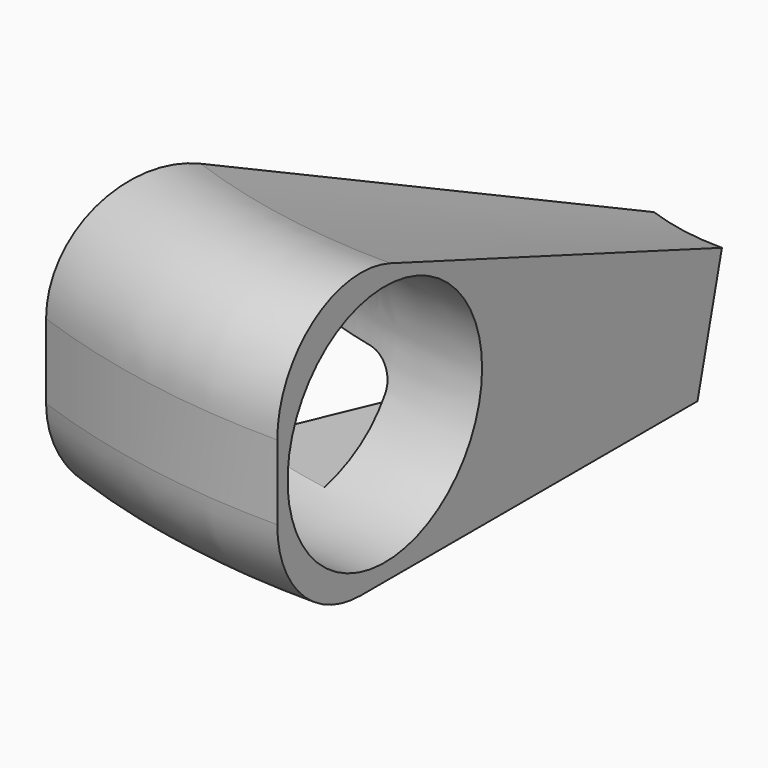
from build123d import *

# Parameters (mm, degrees)
F0_R     = 5.8053181287
F2_ANGLE = 20
F4_ANGLE = 10
F5_R     = 1.4002438662


with BuildPart() as f2:
    # F0 (on Right) → F2 (revolve)
    with BuildSketch(Plane.YZ):
        with BuildLine():
            Line((-32.5852286816, 0), (-12.5, 0))
            Line((-12.5, 0), (-11.0429839557, 5.8568340727))
            Line((-11.0429839557, 5.8568340727), (-30.835461438, 13.2508232685))
            ThreePointArc((-30.835461438, 13.2508232685), (-35.4357693129, 12.6748361661), (-37.5852286816, 8.5669878109))
            Line((-37.5852286816, 8.5669878109), (-37.5852286816, 5))
            ThreePointArc((-37.5852286816, 5), (-36.1207625875, 1.4644660941), (-32.5852286816, 0))
        make_face()
        with Locations((-31.1660505831, 6.6100014374)):
            Circle(F0_R, mode=Mode.SUBTRACT)
    revolve(axis=Axis((0, 0, 4.1237957776), (0, 0, -1)), revolution_arc=F2_ANGLE)

    # F3 (on face) → F4 (revolve, cut)
    with BuildSketch(Plane(origin=(0, 0, 0), x_dir=(-0.3420201433, -0.9396926208, 0), z_dir=(-0.9396926208, 0.3420201433, 0))):
        with BuildLine():
            Line((12.3108689231, 0.7602588451), (28.9381639648, 1.2491955472))
            ThreePointArc((28.9381639648, 1.2491955472), (26.6792086534, 2.9262576795), (25.4740637742, 5.4685091058))
            Line((25.4740637742, 5.4685091058), (11.7714919778, 2.9284170363))
            Line((11.7714919778, 2.9284170363), (12.3108689231, 0.7602588451))
        make_face()
    revolve(axis=Axis((0, 0, 4.1237957776), (0, 0, 1)), revolution_arc=F4_ANGLE, mode=Mode.SUBTRACT)

    # F5
    f5_edges = [f2.edges().sort_by_distance(p)[0] for p in [
        (-3.233811, -18.339856, 4.198463),
    ]]
    fillet(f5_edges, radius=F5_R)


solid = f2.part
